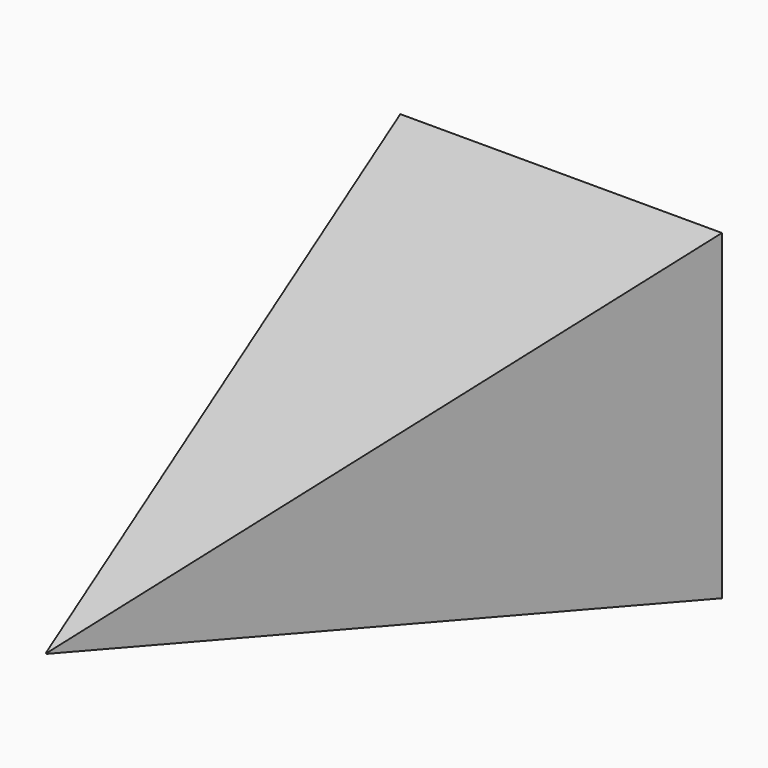
from build123d import *

# Parameters (mm, degrees)
F0_W     = 127
F0_H     = 127
F1_DEPTH = 254
F1_TAPER = 14


with BuildPart() as f1:
    # F0 (on Front) → F1 (new body)
    with BuildSketch(Plane.XZ):
        Rectangle(F0_W, F0_H)
    extrude(amount=F1_DEPTH, taper=F1_TAPER)


solid = f1.part
